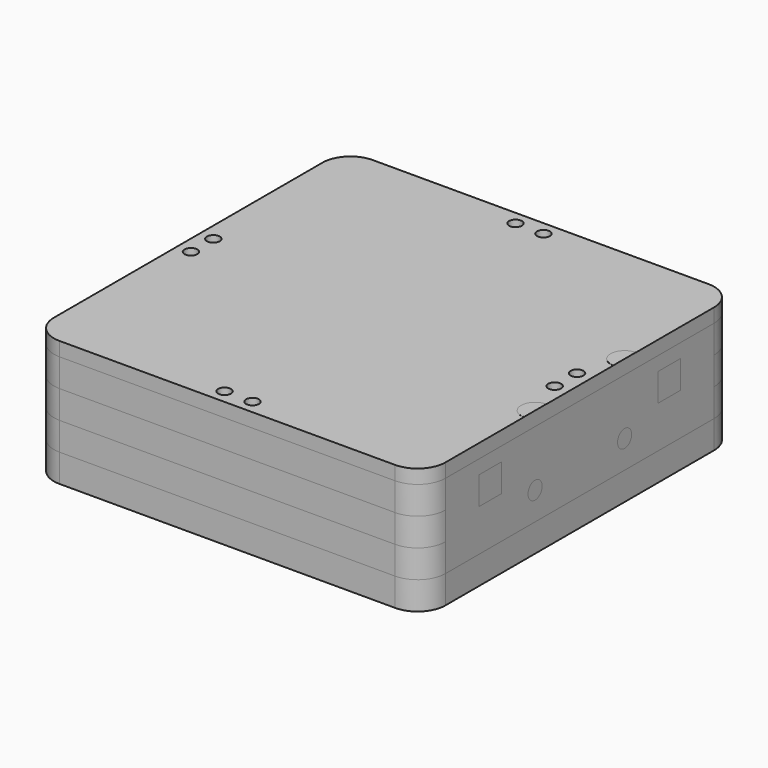
from build123d import *

# Parameters (mm, degrees)
F1_DEPTH  = 6.35
F2_W      = 6.35
F2_H      = 76.2
F3_DEPTH  = 19.05
F5_DEPTH  = 12.7
F7_DEPTH  = 6.35
F9_DEPTH  = 3.175
F10_W     = 6.35
F10_H     = 6.35
F10_R     = 2
F11_DEPTH = 25.4
F12_R     = 1.4605
F13_DEPTH = 22.225
F14_R     = 0.9652
F15_DEPTH = 6.35
F17_DEPTH = 0.0254
F18_W     = 6.35
F18_H     = 6.35
F19_DEPTH = 6.35
F20_R     = 2
F21_DEPTH = 12.7


with BuildPart() as f1:
    # F0 (on Top) → F1 (new body)
    with BuildSketch(Plane.XY):
        with BuildLine():
            ThreePointArc((44.45, 38.1), (42.5901280605, 42.5901280605), (38.1, 44.45))
            Line((38.1, 44.45), (-38.1, 44.45))
            ThreePointArc((-38.1, 44.45), (-42.5901280605, 42.5901280605), (-44.45, 38.1))
            Line((-44.45, 38.1), (-44.45, -38.1))
            ThreePointArc((-44.45, -38.1), (-42.5901280605, -42.5901280605), (-38.1, -44.45))
            Line((-38.1, -44.45), (38.1, -44.45))
            ThreePointArc((38.1, -44.45), (42.5901280605, -42.5901280605), (44.45, -38.1))
            Line((44.45, -38.1), (44.45, 38.1))
        make_face()
    extrude(amount=F1_DEPTH)

    # F14 (on face) → F15 (cut)
    with BuildSketch(Plane(origin=(0, 0, 0), x_dir=(1, 0, 0), z_dir=(0, 0, -1))):
        with Locations((-3.175, -41.275)):
            Circle(F14_R)
        with Locations((3.175, -41.275)):
            Circle(F14_R)
        with Locations((-41.275, 3.175)):
            Circle(F14_R)
        with Locations((-41.275, -3.175)):
            Circle(F14_R)
        with Locations((41.275, -3.175)):
            Circle(F14_R)
        with Locations((41.275, 3.175)):
            Circle(F14_R)
        with Locations((3.175, 41.275)):
            Circle(F14_R)
        with Locations((-3.175, 41.275)):
            Circle(F14_R)
    extrude(amount=-F15_DEPTH, mode=Mode.SUBTRACT)


with BuildPart() as f3:
    # F2 (on face) → F3 (new body)
    with BuildSketch(Plane.XY.offset(6.35)):
        with Locations((-41.275, 0)):
            Rectangle(F2_W, F2_H)
    extrude(amount=F3_DEPTH)


with BuildPart() as f3b:
    # F2 (on face) → F3, piece 2 (new body)
    with BuildSketch(Plane.XY.offset(6.35)):
        with Locations((41.275, 0)):
            Rectangle(F2_W, F2_H)
    extrude(amount=F3_DEPTH)

    # F10 (on face) → F11 (cut)
    with BuildSketch(Plane.YZ.offset(44.45)):
        with Locations((25.4, 19.05)):
            Rectangle(F10_W, F10_H)
        with Locations((-25.4, 19.05)):
            Rectangle(F10_W, F10_H)
        with Locations((-12.7, 12.7)):
            Circle(F10_R)
        with Locations((12.7, 12.7)):
            Circle(F10_R)
    extrude(amount=-F11_DEPTH, mode=Mode.SUBTRACT)


with BuildPart() as f5:
    # F4 (on face) → F5 (new body)
    with BuildSketch(Plane.XY.offset(6.35)):
        with BuildLine():
            Line((38.1, 44.45), (-38.1, 44.45))
            ThreePointArc((-38.1, 44.45), (-42.5901280605, 42.5901280605), (-44.45, 38.1))
            Line((-44.45, 38.1), (-38.1, 38.1))
            Line((-38.1, 38.1), (38.1, 38.1))
            Line((38.1, 38.1), (44.45, 38.1))
            ThreePointArc((44.45, 38.1), (42.5901280605, 42.5901280605), (38.1, 44.45))
        make_face()
    extrude(amount=F5_DEPTH)


with BuildPart() as f5b:
    # F4 (on face) → F5, piece 2 (new body)
    with BuildSketch(Plane.XY.offset(6.35)):
        with BuildLine():
            Line((-38.1, -38.1), (-44.45, -38.1))
            ThreePointArc((-44.45, -38.1), (-42.5901280605, -42.5901280605), (-38.1, -44.45))
            Line((-38.1, -44.45), (38.1, -44.45))
            ThreePointArc((38.1, -44.45), (42.5901280605, -42.5901280605), (44.45, -38.1))
            Line((44.45, -38.1), (38.1, -38.1))
            Line((38.1, -38.1), (-38.1, -38.1))
        make_face()
    extrude(amount=F5_DEPTH)


with BuildPart() as f7:
    # F6 (on face) → F7 (new body)
    with BuildSketch(Plane.XY.offset(19.05)):
        with BuildLine():
            ThreePointArc((-38.1, 44.45), (-42.5901280605, 42.5901280605), (-44.45, 38.1))
            Line((-44.45, 38.1), (44.45, 38.1))
            ThreePointArc((44.45, 38.1), (42.5901280605, 42.5901280605), (38.1, 44.45))
            Line((38.1, 44.45), (-38.1, 44.45))
        make_face()
    extrude(amount=F7_DEPTH)


with BuildPart() as f7b:
    # F6 (on face) → F7, piece 2 (new body)
    with BuildSketch(Plane.XY.offset(19.05)):
        with BuildLine():
            ThreePointArc((38.1, -44.45), (42.5901280605, -42.5901280605), (44.45, -38.1))
            Line((44.45, -38.1), (-44.45, -38.1))
            ThreePointArc((-44.45, -38.1), (-42.5901280605, -42.5901280605), (-38.1, -44.45))
            Line((-38.1, -44.45), (38.1, -44.45))
        make_face()
    extrude(amount=F7_DEPTH)


with BuildPart() as f9:
    # F8 (on face) → F9 (new body)
    with BuildSketch(Plane.XY.offset(25.4)):
        with BuildLine():
            Line((44.45, -38.1), (44.45, 38.1))
            ThreePointArc((44.45, 38.1), (42.5901280605, 42.5901280605), (38.1, 44.45))
            Line((38.1, 44.45), (-38.1, 44.45))
            ThreePointArc((-38.1, 44.45), (-42.5901280605, 42.5901280605), (-44.45, 38.1))
            Line((-44.45, 38.1), (-44.45, -38.1))
            ThreePointArc((-44.45, -38.1), (-42.5901280605, -42.5901280605), (-38.1, -44.45))
            Line((-38.1, -44.45), (38.1, -44.45))
            ThreePointArc((38.1, -44.45), (42.5901280605, -42.5901280605), (44.45, -38.1))
        make_face()
    extrude(amount=F9_DEPTH)


with BuildPart() as f13_tool:
    # F12 (on face) → F13 (new body)
    with BuildSketch(Plane.XY.offset(28.575)):
        with Locations((-41.275, 3.175)):
            Circle(F12_R)
        with Locations((-41.275, -3.175)):
            Circle(F12_R)
        with Locations((-3.175, 41.275)):
            Circle(F12_R)
        with Locations((3.175, 41.275)):
            Circle(F12_R)
        with Locations((-3.175, -41.275)):
            Circle(F12_R)
        with Locations((3.175, -41.275)):
            Circle(F12_R)
        with Locations((41.275, 3.175)):
            Circle(F12_R)
        with Locations((41.275, -3.175)):
            Circle(F12_R)
    extrude(amount=-F13_DEPTH)


with BuildPart() as f3_1:
    add(f3.part)

    # F13: cut by f13_tool
    add(f13_tool.part, mode=Mode.SUBTRACT)


with BuildPart() as f3b_1:
    add(f3b.part)

    # F13: cut by f13_tool
    add(f13_tool.part, mode=Mode.SUBTRACT)


with BuildPart() as f5_1:
    add(f5.part)

    # F13: cut by f13_tool
    add(f13_tool.part, mode=Mode.SUBTRACT)


with BuildPart() as f5b_1:
    add(f5b.part)

    # F13: cut by f13_tool
    add(f13_tool.part, mode=Mode.SUBTRACT)


with BuildPart() as f7_1:
    add(f7.part)

    # F13: cut by f13_tool
    add(f13_tool.part, mode=Mode.SUBTRACT)


with BuildPart() as f7b_1:
    add(f7b.part)

    # F13: cut by f13_tool
    add(f13_tool.part, mode=Mode.SUBTRACT)


with BuildPart() as f9_1:
    add(f9.part)

    # F13: cut by f13_tool
    add(f13_tool.part, mode=Mode.SUBTRACT)


with BuildPart() as f17:
    # F16 (on face) → F17 (new body)
    with BuildSketch(Plane.XY.offset(28.575)):
        with BuildLine():
            Line((44.45, 9.525), (44.45, 15.875))
            ThreePointArc((44.45, 15.875), (41.275, 12.7), (44.45, 9.525))
        make_face()
    extrude(amount=F17_DEPTH)


with BuildPart() as f17b:
    # F16 (on face) → F17, piece 2 (new body)
    with BuildSketch(Plane.XY.offset(28.575)):
        with BuildLine():
            Line((44.45, -15.875), (44.45, -9.525))
            ThreePointArc((44.45, -9.525), (41.275, -12.7), (44.45, -15.875))
        make_face()
    extrude(amount=F17_DEPTH)


with BuildPart() as f19:
    # F18 (on face) → F19 (new body)
    with BuildSketch(Plane.YZ.offset(44.45)):
        with Locations((25.4, 19.05)):
            Rectangle(F18_W, F18_H)
    extrude(amount=-F19_DEPTH)


with BuildPart() as f19b:
    # F18 (on face) → F19, piece 2 (new body)
    with BuildSketch(Plane.YZ.offset(44.45)):
        with Locations((-25.4, 19.05)):
            Rectangle(F18_W, F18_H)
    extrude(amount=-F19_DEPTH)


with BuildPart() as f21:
    # F20 (on face) → F21 (new body)
    with BuildSketch(Plane.YZ.offset(44.45)):
        with Locations((12.7, 12.7)):
            Circle(F20_R)
    extrude(amount=-F21_DEPTH)


with BuildPart() as f21b:
    # F20 (on face) → F21, piece 2 (new body)
    with BuildSketch(Plane.YZ.offset(44.45)):
        with Locations((-12.7, 12.7)):
            Circle(F20_R)
    extrude(amount=-F21_DEPTH)


with BuildPart() as f22_1:
    # F22: copy of F7
    add(f7_1.part.moved(Location((0, 0, -6.35))))


with BuildPart() as f23_1:
    # F23: copy of F22_1
    add(f22_1.part.moved(Location((0, 0, -6.35))))


with BuildPart() as f24_1:
    # F24: copy of F7b
    add(f7b_1.part.moved(Location((0, 0, -12.7))))


with BuildPart() as f25_1:
    # F25: copy of F24_1
    add(f24_1.part.moved(Location((0, 0, 6.35))))


solid = Compound([f1.part, f3_1.part, f3b_1.part, f5_1.part, f5b_1.part, f7_1.part, f7b_1.part, f9_1.part, f17.part, f17b.part, f19.part, f19b.part, f21.part, f21b.part, f22_1.part, f23_1.part, f24_1.part, f25_1.part])
